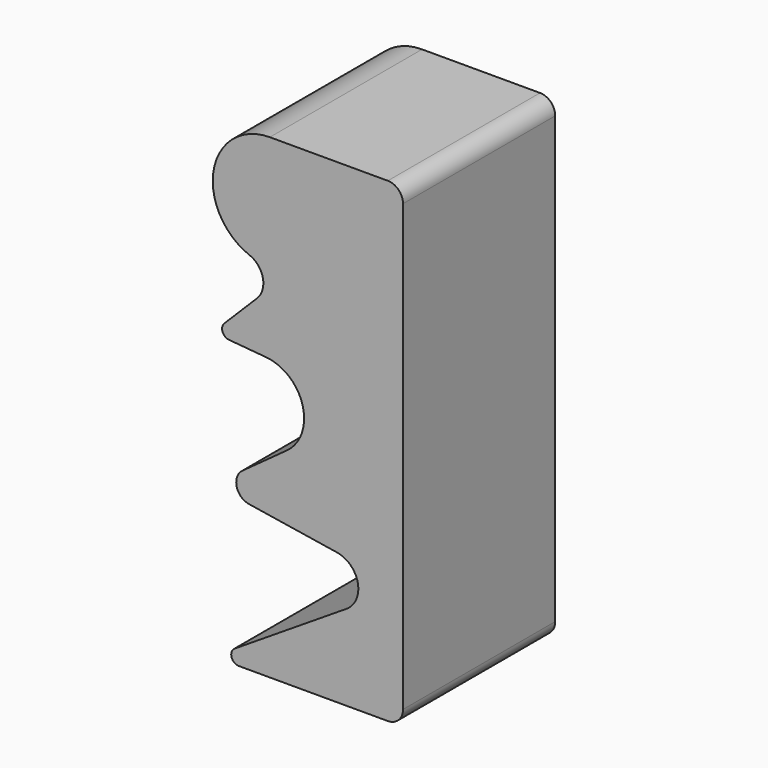
from build123d import *

# Parameters (mm, degrees)
F1_DEPTH = 6.35
F2_R     = 0.254
F3_R     = 0.508


with BuildPart() as f1:
    # F0 (on Front) → F1 (new body)
    with BuildSketch(Plane.XZ):
        with BuildLine():
            Line((4.466619, 2.85162), (0, 0))
            Line((0, 0), (6.35, 0))
            Line((6.35, 0), (6.35, 15.875))
            Line((6.35, 15.875), (1.905, 15.875))
            ThreePointArc((1.905, 15.875), (0.031846, 14.316871), (1.222856, 12.191319))
            ThreePointArc((1.222856, 12.191319), (1.672644, 11.664932), (1.476048, 11.001048))
            Line((1.476048, 11.001048), (0, 9.525))
            Line((0, 9.525), (1.779807, 9.369287))
            ThreePointArc((1.779807, 9.369287), (2.998749, 8.355504), (2.476049, 6.858721))
            Line((2.476049, 6.858721), (0, 5.059766))
            Line((0, 5.059766), (4.14303, 4.403575))
            ThreePointArc((4.14303, 4.403575), (4.840359, 3.739258), (4.466619, 2.85162))
        make_face()
    extrude(amount=F1_DEPTH)

    # F2
    f2_edges = [f1.edges().sort_by_distance(p)[0] for p in [
        (0, -3.175, 0),
        (0, -3.175, 9.525),
    ]]
    fillet(f2_edges, radius=F2_R)

    # F3
    f3_edges = [f1.edges().sort_by_distance(p)[0] for p in [
        (6.35, -3.175, 0),
        (6.35, -3.175, 15.875),
        (0, -3.175, 5.059766),
    ]]
    fillet(f3_edges, radius=F3_R)


solid = f1.part
